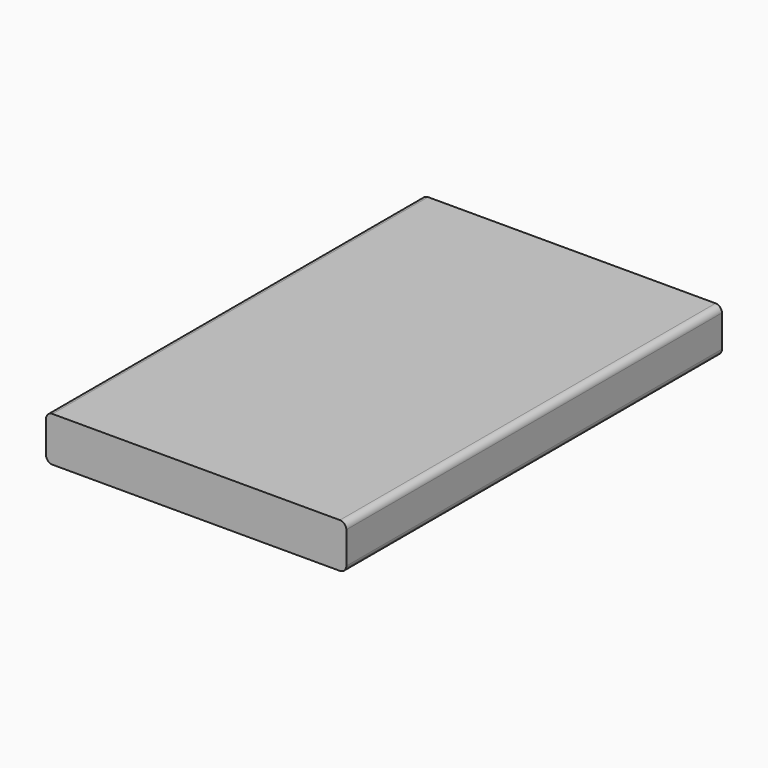
from build123d import *

# Parameters (mm, degrees)
F0_W     = 119.38
F0_H     = 17.78
F1_DEPTH = 93.345
F2_W     = 106.68
F2_H     = 177.8
F3_DEPTH = 17.78
F4_W     = 106.68
F4_H     = 177.8
F5_DEPTH = 8.89
F6_R     = 2.54


with BuildPart() as f1:
    # F0 (on Front) → F1 (new body, symmetric)
    with BuildSketch(Plane.XZ):
        Rectangle(F0_W, F0_H)
    extrude(amount=F1_DEPTH, both=True)

    # F2 (on face) → F3 (cut)
    with BuildSketch(Plane.XY):
        Rectangle(F2_W, F2_H)
    extrude(amount=-F3_DEPTH, mode=Mode.SUBTRACT)

    # F4 (on Top) → F5 (join, symmetric)
    with BuildSketch(Plane.XY):
        Rectangle(F4_W, F4_H)
    extrude(amount=F5_DEPTH, both=True)

    # F6
    f6_edges = [f1.edges().sort_by_distance(p)[0] for p in [
        (-59.69, 0, 8.89),
        (-59.69, 0, -8.89),
        (59.69, 0, 8.89),
        (59.69, 0, -8.89),
    ]]
    fillet(f6_edges, radius=F6_R)


solid = f1.part
